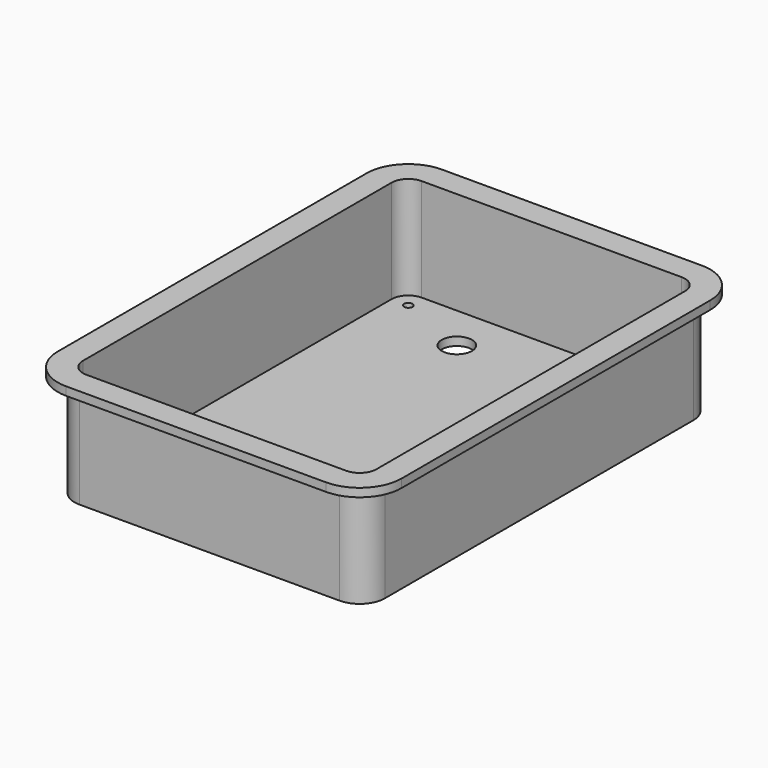
from build123d import *

# Parameters (mm, degrees)
F0_R     = 0.5
F1_DEPTH = 1
F2_DEPTH = 13.23
F3_R     = 1.8
F4_DEPTH = 1
F6_DEPTH = 1


with BuildPart() as f1:
    # F0 (on Top) → F1 (new body)
    with BuildSketch(Plane.XY):
        with BuildLine():
            ThreePointArc((-17.84133, -20.107526), (-17.255543, -21.521739), (-15.84133, -22.107526))
            Line((-15.84133, -22.107526), (15.15867, -22.107526))
            ThreePointArc((15.15867, -22.107526), (16.572884, -21.521739), (17.15867, -20.107526))
            Line((17.15867, -20.107526), (17.15867, 25.892474))
            ThreePointArc((17.15867, 25.892474), (16.572884, 27.306688), (15.15867, 27.892474))
            Line((15.15867, 27.892474), (-15.84133, 27.892474))
            ThreePointArc((-15.84133, 27.892474), (-17.255543, 27.306688), (-17.84133, 25.892474))
            Line((-17.84133, 25.892474), (-17.84133, -20.107526))
        make_face()
        with Locations((-15.84133, -20.107526)):
            Circle(F0_R, mode=Mode.SUBTRACT)
        with Locations((15.15867, -20.107526)):
            Circle(F0_R, mode=Mode.SUBTRACT)
        with Locations((-15.84133, 25.892474)):
            Circle(F0_R, mode=Mode.SUBTRACT)
        with Locations((15.15867, 25.892474)):
            Circle(F0_R, mode=Mode.SUBTRACT)
    extrude(amount=F1_DEPTH)

    # F0 (on Top) → F2 (join)
    with BuildSketch(Plane.XY):
        with BuildLine():
            Line((15.15867, 28.892474), (-15.84133, 28.892474))
            ThreePointArc((-15.84133, 28.892474), (-17.96265, 28.013795), (-18.84133, 25.892474))
            Line((-18.84133, 25.892474), (-18.84133, -20.107526))
            ThreePointArc((-18.84133, -20.107526), (-17.96265, -22.228846), (-15.84133, -23.107526))
            Line((-15.84133, -23.107526), (15.15867, -23.107526))
            ThreePointArc((15.15867, -23.107526), (17.279991, -22.228846), (18.15867, -20.107526))
            Line((18.15867, -20.107526), (18.15867, 25.892474))
            ThreePointArc((18.15867, 25.892474), (17.279991, 28.013795), (15.15867, 28.892474))
        make_face()
        with BuildLine():
            Line((15.15867, -22.107526), (-15.84133, -22.107526))
            ThreePointArc((-15.84133, -22.107526), (-17.255543, -21.521739), (-17.84133, -20.107526))
            Line((-17.84133, -20.107526), (-17.84133, 25.892474))
            ThreePointArc((-17.84133, 25.892474), (-17.255543, 27.306688), (-15.84133, 27.892474))
            Line((-15.84133, 27.892474), (15.15867, 27.892474))
            ThreePointArc((15.15867, 27.892474), (16.572884, 27.306688), (17.15867, 25.892474))
            Line((17.15867, 25.892474), (17.15867, -20.107526))
            ThreePointArc((17.15867, -20.107526), (16.572884, -21.521739), (15.15867, -22.107526))
        make_face(mode=Mode.SUBTRACT)
    extrude(amount=F2_DEPTH)

    # F3 (on face) → F4 (cut)
    with BuildSketch(Plane(origin=(0, 0, 0), x_dir=(1, 0, 0), z_dir=(0, 0, -1))):
        with Locations((-7.26933, -22.408474)):
            Circle(F3_R)
        with Locations((7.54767, -22.408474)):
            Circle(F3_R)
    extrude(amount=-F4_DEPTH, mode=Mode.SUBTRACT)

    # F5 (on face) → F6 (join)
    with BuildSketch(Plane.XY.offset(13.23)):
        with BuildLine():
            Line((15.15867, 30.892474), (-15.84133, 30.892474))
            ThreePointArc((-15.84133, 30.892474), (-19.376864, 29.428008), (-20.84133, 25.892474))
            Line((-20.84133, 25.892474), (-20.84133, -20.107526))
            ThreePointArc((-20.84133, -20.107526), (-19.376864, -23.64306), (-15.84133, -25.107526))
            Line((-15.84133, -25.107526), (15.15867, -25.107526))
            ThreePointArc((15.15867, -25.107526), (18.694204, -23.64306), (20.15867, -20.107526))
            Line((20.15867, -20.107526), (20.15867, 25.892474))
            ThreePointArc((20.15867, 25.892474), (18.694204, 29.428008), (15.15867, 30.892474))
        make_face()
        with BuildLine():
            ThreePointArc((15.15867, 28.892474), (17.279991, 28.013795), (18.15867, 25.892474))
            Line((18.15867, 25.892474), (18.15867, -20.107526))
            ThreePointArc((18.15867, -20.107526), (17.279991, -22.228846), (15.15867, -23.107526))
            Line((15.15867, -23.107526), (-15.84133, -23.107526))
            ThreePointArc((-15.84133, -23.107526), (-17.96265, -22.228846), (-18.84133, -20.107526))
            Line((-18.84133, -20.107526), (-18.84133, 25.892474))
            ThreePointArc((-18.84133, 25.892474), (-17.96265, 28.013795), (-15.84133, 28.892474))
            Line((-15.84133, 28.892474), (15.15867, 28.892474))
        make_face(mode=Mode.SUBTRACT)
    extrude(amount=-F6_DEPTH)


solid = f1.part
